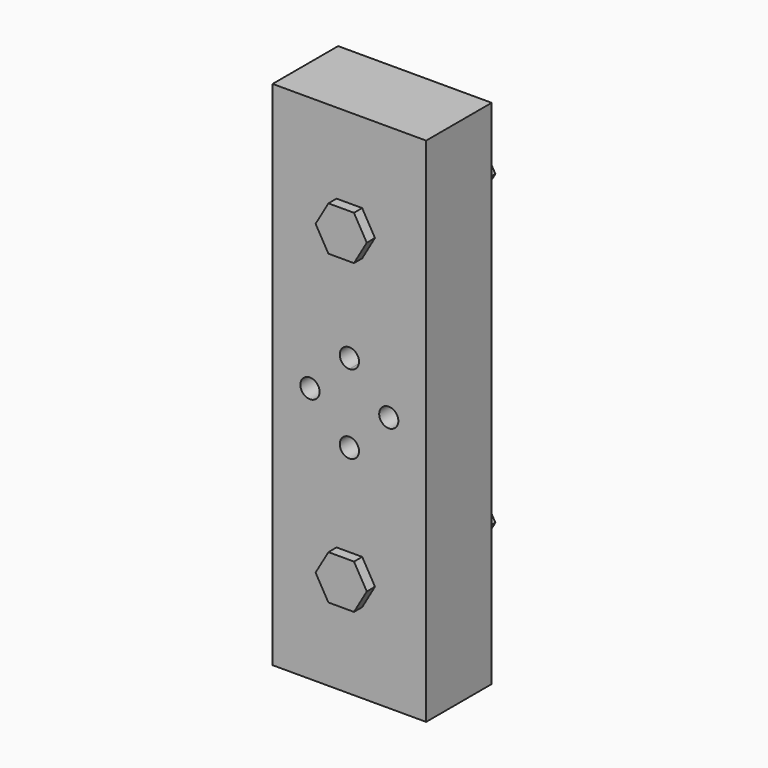
from build123d import *

# Parameters (mm, degrees)
F1_DEPTH = 2.54
F2_R     = 3.175
F3_DEPTH = 35.56
F4_R     = 3.175
F5_DEPTH = 20.32
F8_R     = 3.175
F9_DEPTH = 2.54


with BuildPart() as f1:
    # F0 (on Front) → F1 (new body)
    with BuildSketch(Plane.XZ):
        Polygon((3.175, -5.499261314), (6.35, 0), (3.175, 5.499261314), (-3.175, 5.499261314), (-6.35, 0), (-3.175, -5.499261314), align=None)
    extrude(amount=F1_DEPTH)

    # F2 (on face) → F3 (join)
    with BuildSketch(Plane(origin=(0, 0, 0), x_dir=(-1, 0, 0), z_dir=(0, 1, 0))):
        Circle(F2_R)
    extrude(amount=F3_DEPTH)


with BuildPart() as f5:
    # F4 (on Front) → F5 (new body)
    with BuildSketch(Plane.XZ):
        with BuildLine():
            Line((19.05, 101.6), (0, 101.6))
            Line((0, 101.6), (-19.05, 101.6))
            Line((-19.05, 101.6), (-19.05, 38.1))
            Line((-19.05, 38.1), (-12.16025, 38.1))
            ThreePointArc((-12.16025, 38.1), (-9.779, 40.48125), (-7.39775, 38.1))
            Line((-7.39775, 38.1), (0, 38.1))
            Line((0, 38.1), (7.39775, 38.1))
            ThreePointArc((7.39775, 38.1), (9.779, 40.48125), (12.16025, 38.1))
            Line((12.16025, 38.1), (19.05, 38.1))
            Line((19.05, 38.1), (19.05, 101.6))
        make_face()
        with BuildLine():
            ThreePointArc((2.3876, 47.879), (1.6882881508, 46.1907118492), (0, 45.4914))
            ThreePointArc((0, 45.4914), (-1.6882881508, 49.5672881508), (2.3876, 47.879))
        make_face(mode=Mode.SUBTRACT)
        with Locations((0, 76.2)):
            Circle(F4_R, mode=Mode.SUBTRACT)
        with BuildLine():
            Line((-12.16025, 38.1), (-19.05, 38.1))
            Line((-19.05, 38.1), (-19.05, -25.4))
            Line((-19.05, -25.4), (19.05, -25.4))
            Line((19.05, -25.4), (19.05, 38.1))
            Line((19.05, 38.1), (12.16025, 38.1))
            ThreePointArc((12.16025, 38.1), (9.779, 35.71875), (7.39775, 38.1))
            Line((7.39775, 38.1), (0, 38.1))
            Line((0, 38.1), (-7.39775, 38.1))
            ThreePointArc((-7.39775, 38.1), (-9.779, 35.71875), (-12.16025, 38.1))
        make_face()
        Circle(F4_R, mode=Mode.SUBTRACT)
        with BuildLine():
            ThreePointArc((2.3876, 28.321), (-1.6882881508, 26.6327118492), (0, 30.7086))
            ThreePointArc((0, 30.7086), (1.6882881508, 30.0092881508), (2.3876, 28.321))
        make_face(mode=Mode.SUBTRACT)
    extrude(amount=-F5_DEPTH)


with BuildPart() as f7_1:
    # F7: instance of F1
    add(f1.part.mirror(Plane(origin=(0, 10.16, 38.1), x_dir=(1, 0, 0), z_dir=(0, 0, -1))))


with BuildPart() as f9:
    # F8 (on face) → F9 (new body)
    with BuildSketch(Plane(origin=(0, 35.56, 0), x_dir=(-1, 0, 0), z_dir=(0, 1, 0))):
        Polygon((3.8933134215, 6.7434166558), (-3.8933134215, 6.7434166558), (-7.786626843, 0), (-3.8933134215, -6.7434166558), (3.8933134215, -6.7434166558), (7.786626843, 0), align=None)
        Circle(F8_R, mode=Mode.SUBTRACT)
    extrude(amount=-F9_DEPTH)


with BuildPart() as f10_1:
    # F10: copy of F9
    add(f9.part.moved(Location((0, -6.35, 0))))


with BuildPart() as f11_1:
    # F11: instance of F10_1
    add(f10_1.part.mirror(Plane(origin=(0, 10.16, 38.1), x_dir=(1, 0, 0), z_dir=(0, 0, -1))))


with BuildPart() as f11_2:
    # F11: instance of F9
    add(f9.part.mirror(Plane(origin=(0, 10.16, 38.1), x_dir=(1, 0, 0), z_dir=(0, 0, -1))))


solid = Compound([f1.part, f5.part, f7_1.part, f9.part, f10_1.part, f11_1.part, f11_2.part])
